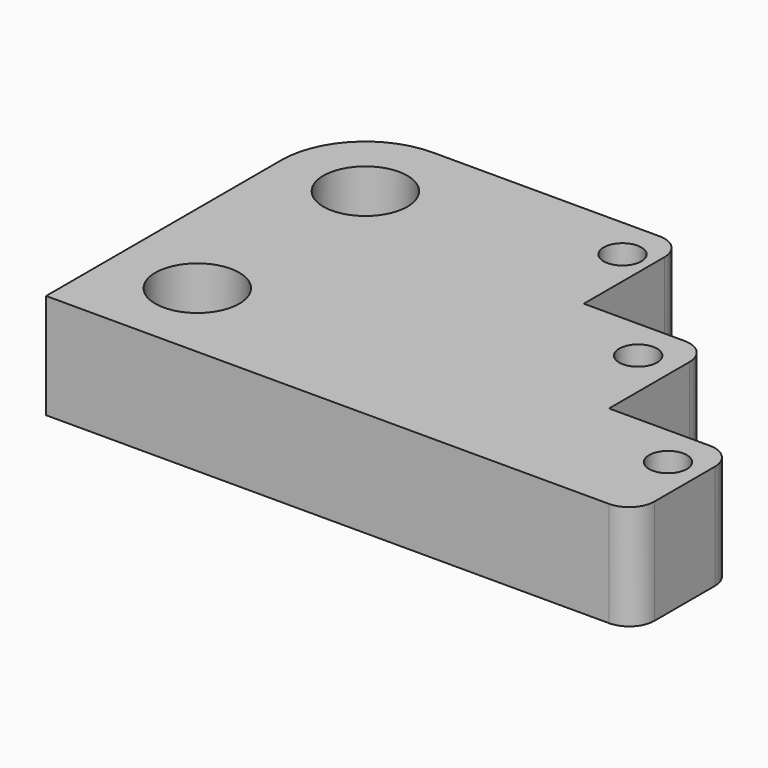
from build123d import *

# Parameters (mm, degrees)
F0_R     = 10
F0_R_2   = 4.5
F1_DEPTH = 25


with BuildPart() as f1:
    # F0 (on Top) → F1 (new body)
    with BuildSketch(Plane.XY):
        with BuildLine():
            ThreePointArc((-65.204328, 54.130437), (-79.346463, 48.272573), (-85.204328, 34.130437))
            Line((-85.204328, 34.130437), (-85.204328, -15.869563))
            ThreePointArc((-85.204328, -15.869563), (-79.346463, -30.011699), (-65.204328, -35.869563))
            Line((-65.204328, -35.869563), (48.795672, -35.869563))
            ThreePointArc((48.795672, -35.869563), (53.038313, -34.112204), (54.795672, -29.869563))
            Line((54.795672, -29.869563), (54.795672, -11.869563))
            ThreePointArc((54.795672, -11.869563), (53.038313, -7.626922), (48.795672, -5.869563))
            Line((48.795672, -5.869563), (24.795672, -5.869563))
            Line((24.795672, -5.869563), (24.795672, 18.130437))
            ThreePointArc((24.795672, 18.130437), (23.038313, 22.373078), (18.795672, 24.130437))
            Line((18.795672, 24.130437), (-5.204328, 24.130437))
            Line((-5.204328, 24.130437), (-5.204328, 48.130437))
            ThreePointArc((-5.204328, 48.130437), (-6.961687, 52.373078), (-11.204328, 54.130437))
            Line((-11.204328, 54.130437), (-65.204328, 54.130437))
        make_face()
        with Locations((-65.204328, -15.869563)):
            Circle(F0_R, mode=Mode.SUBTRACT)
        with Locations((46.84058, -15.869563)):
            Circle(F0_R_2, mode=Mode.SUBTRACT)
        with Locations((-65.204328, 34.130437)):
            Circle(F0_R, mode=Mode.SUBTRACT)
        with Locations((15.724638, 14.130437)):
            Circle(F0_R_2, mode=Mode.SUBTRACT)
        with Locations((-12, 44.130437)):
            Circle(F0_R_2, mode=Mode.SUBTRACT)
        with BuildLine():
            ThreePointArc((-65.204328, -35.869563), (-79.346463, -30.011699), (-85.204328, -15.869563))
            Line((-85.204328, -15.869563), (-85.204328, -35.869563))
            Line((-85.204328, -35.869563), (-65.204328, -35.869563))
        make_face()
    extrude(amount=F1_DEPTH)


solid = f1.part
